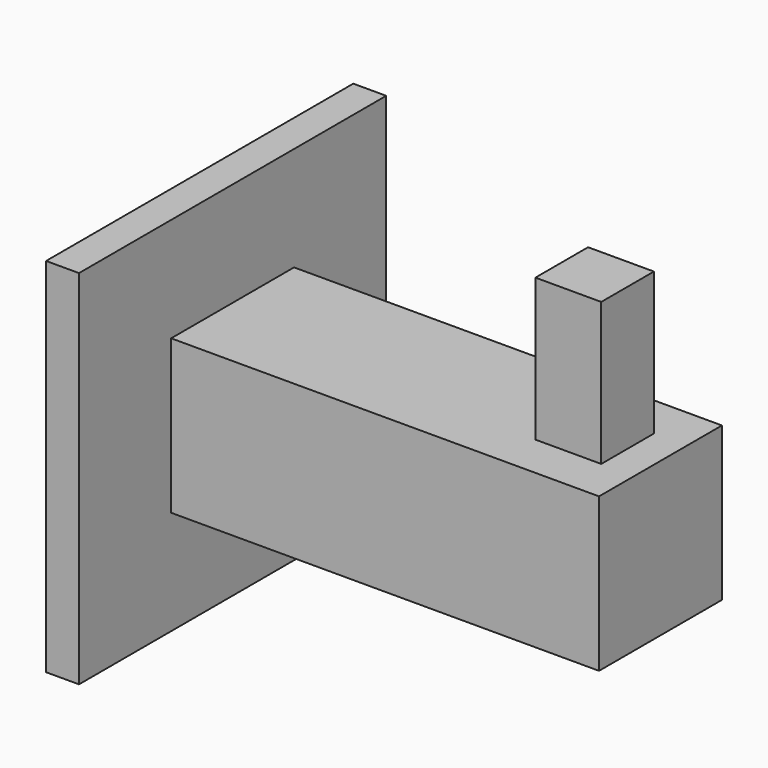
from build123d import *

# Parameters (mm, degrees)
F1_DEPTH = 1.75
F2_DEPTH = 0.7
F0_W     = 0.6
F0_H     = 1.3
F3_DEPTH = 0.3


with BuildPart() as f1:
    # F0 (on Front) → F1 (new body, symmetric)
    with BuildSketch(Plane.XZ):
        Polygon((-1.95, -1.65), (-1.95, -0.7), (-1.95, 0.7), (-1.95, 1.65), (-2.25, 1.65), (-2.25, -1.65), align=None)
    extrude(amount=F1_DEPTH, both=True)

    # F0 (on Front) → F2 (join, symmetric)
    with BuildSketch(Plane.XZ):
        Polygon((1.95, -0.7), (1.95, 0.7), (1.65, 0.7), (1.05, 0.7), (-1.95, 0.7), (-1.95, -0.7), align=None)
    extrude(amount=F2_DEPTH, both=True)

    # F0 (on Front) → F3 (join, symmetric)
    with BuildSketch(Plane.XZ):
        with Locations((1.35, 1.35)):
            Rectangle(F0_W, F0_H)
    extrude(amount=F3_DEPTH, both=True)


solid = f1.part
